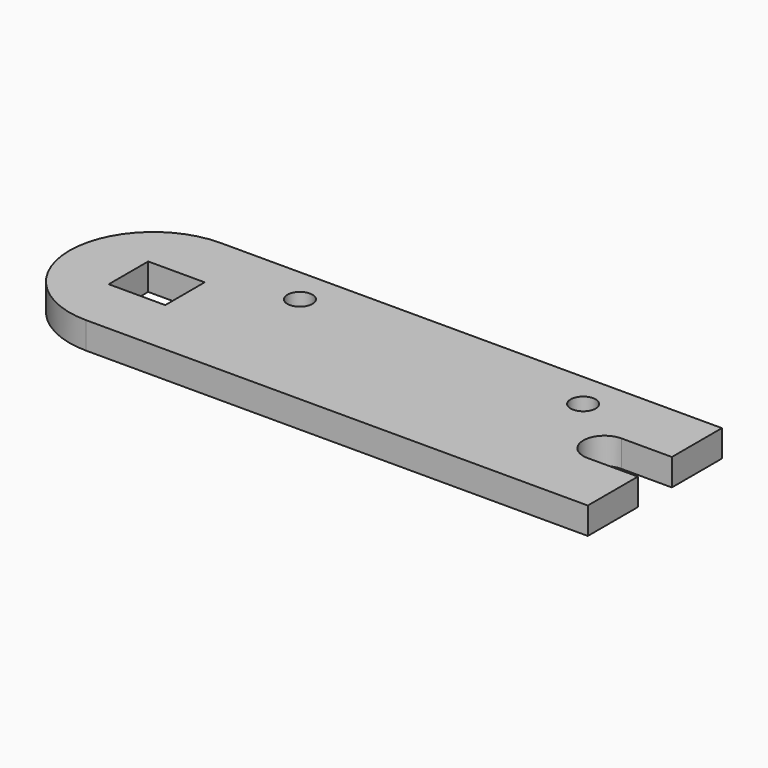
from build123d import *

# Parameters (mm, degrees)
F0_W     = 20.066
F0_H     = 17.51965
F0_R     = 4.445
F1_DEPTH = 9.525


with BuildPart() as f1:
    # F0 (on Top) → F1 (new body)
    with BuildSketch(Plane.XY):
        with BuildLine():
            ThreePointArc((0, 59.53125), (-29.765625, 29.765625), (0, 0))
            Line((0, 0), (178.1175, 0))
            Line((178.1175, 0), (178.1175, 22.225))
            Line((178.1175, 22.225), (160.258125, 22.225))
            ThreePointArc((160.258125, 22.225), (152.7175, 29.765625), (160.258125, 37.30625))
            Line((160.258125, 37.30625), (178.1175, 37.30625))
            Line((178.1175, 37.30625), (178.1175, 59.53125))
            Line((178.1175, 59.53125), (0, 59.53125))
        make_face()
        with Locations((1.397, 29.537025)):
            Rectangle(F0_W, F0_H, mode=Mode.SUBTRACT)
        with Locations((38.4175, 46.83125)):
            Circle(F0_R, mode=Mode.SUBTRACT)
        with Locations((139.0015, 46.83125)):
            Circle(F0_R, mode=Mode.SUBTRACT)
    extrude(amount=F1_DEPTH)


solid = f1.part
